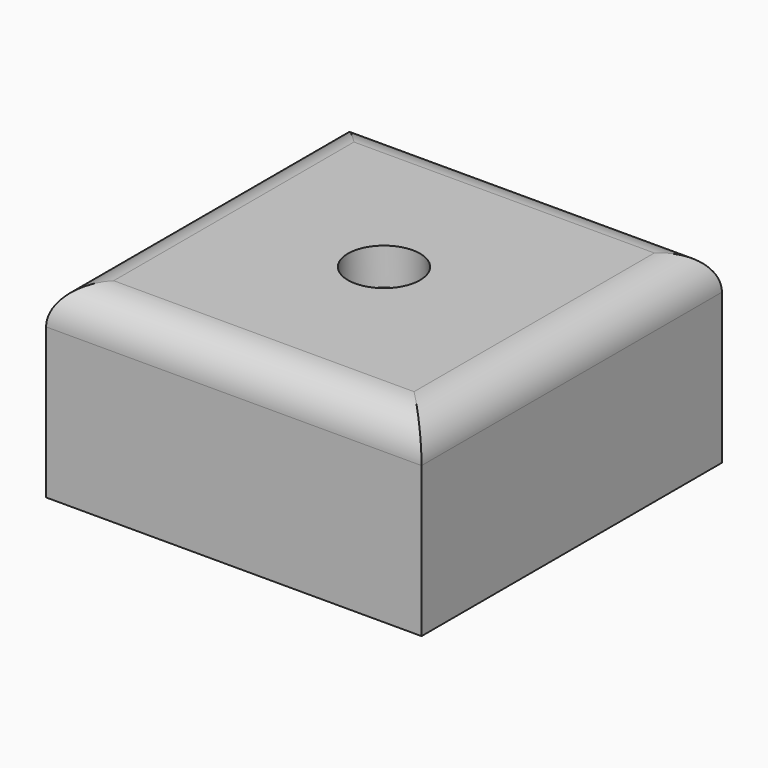
from build123d import *

# Parameters (mm, degrees)
F0_W           = 50.8
F0_H           = 50.8
F1_DEPTH       = 25.4
F3_D           = 5.5
F3_CBORE_D     = 9.75
F3_CBORE_DEPTH = 5
F4_R           = 5.08


with BuildPart() as f1:
    # F0 (on Top) → F1 (new body)
    with BuildSketch(Plane.XY):
        Rectangle(F0_W, F0_H)
    extrude(amount=F1_DEPTH)

    # F3 (through all)
    with Locations(Plane.XY.offset(25.4)):
        with Locations((0, 0)):
            CounterBoreHole(F3_D / 2, F3_CBORE_D / 2, F3_CBORE_DEPTH)

    # F4
    f4_edges = [f1.edges().sort_by_distance(p)[0] for p in [
        (-25.4, 0, 25.4),
        (0, 25.4, 25.4),
        (25.4, 0, 25.4),
        (0, -25.4, 25.4),
    ]]
    fillet(f4_edges, radius=F4_R)


solid = f1.part
